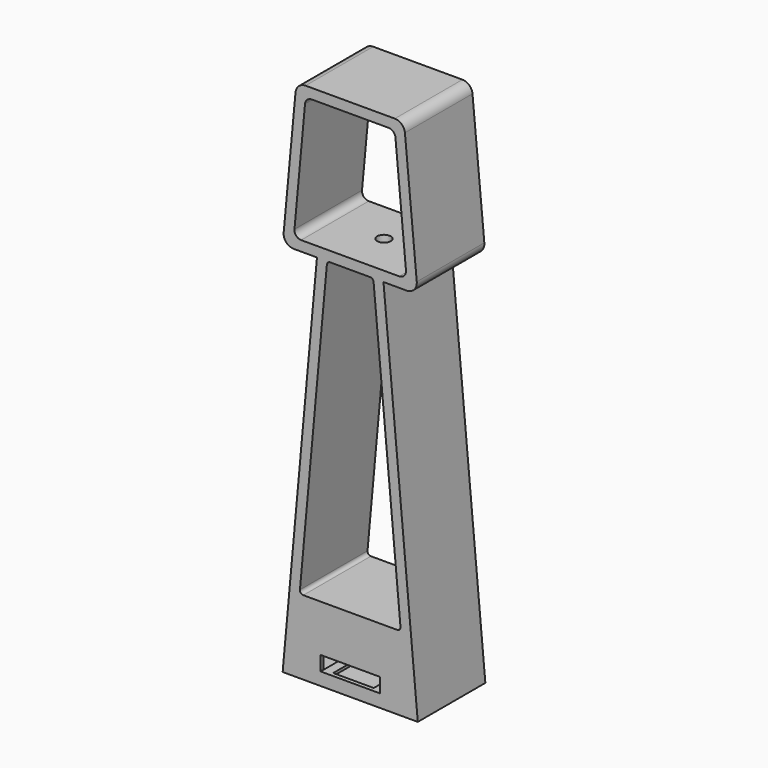
from build123d import *

# Parameters (mm, degrees)
F1_DEPTH  = 250
F3_DEPTH  = 238
F4_W      = 176
F4_H      = 43
F5_DEPTH  = 12.001
F6_R      = 10
F7_R      = 30
F8_R      = 20
F9_R      = 20
F10_DEPTH = 30


with BuildPart() as f1:
    # F0 (on Front) → F1 (new body)
    with BuildSketch(Plane.XZ):
        Polygon((200, 0), (98.472164, 1113.249898), (200, 1113.249898), (159.418754, 1550), (-159.418754, 1550), (-200, 1113.249898), (-98.472164, 1113.249898), (-200, 0), align=None)
        Polygon((-149.811608, 220), (-68.347662, 1113.249898), (68.347662, 1113.249898), (149.811608, 220), align=None, mode=Mode.SUBTRACT)
        Polygon((-167.083285, 1143.249898), (-132.077022, 1520), (132.077022, 1520), (167.083285, 1143.249898), align=None, mode=Mode.SUBTRACT)
    extrude(amount=F1_DEPTH)

    # F2 (on face) → F3 (cut)
    with BuildSketch(Plane(origin=(0, 0, 0), x_dir=(-1, 0, 0), z_dir=(0, 1, 0))):
        Polygon((152.547593, 190), (-152.547593, 190), (-167.139513, 30), (-87.5, 30), (-87.5, 38), (-60, 38), (-60, 30), (60, 30), (60, 38), (87.5, 38), (87.5, 30), (167.139513, 30), align=None)
    extrude(amount=-F3_DEPTH, mode=Mode.SUBTRACT)

    # F4 (on face) → F5 (cut, through all)
    with BuildSketch(Plane(origin=(0, -238, 0), x_dir=(-1, 0, 0), z_dir=(0, 1, 0))):
        with Locations((0, 59.5)):
            Rectangle(F4_W, F4_H)
    extrude(amount=-F5_DEPTH, mode=Mode.SUBTRACT)

    # F6
    f6_edges = [f1.edges().sort_by_distance(p)[0] for p in [
        (-149.811608, -125, 220),
        (149.811608, -125, 220),
        (-68.347662, -125, 1113.249898),
        (68.347662, -125, 1113.249898),
    ]]
    fillet(f6_edges, radius=F6_R)

    # F7
    f7_edges = [f1.edges().sort_by_distance(p)[0] for p in [
        (200, -125, 1113.249898),
        (-200, -125, 1113.249898),
        (-159.418754, -125, 1550),
        (159.418754, -125, 1550),
    ]]
    fillet(f7_edges, radius=F7_R)

    # F8
    f8_edges = [f1.edges().sort_by_distance(p)[0] for p in [
        (-167.083285, -125, 1143.249898),
        (-132.077022, -125, 1520),
        (132.077022, -125, 1520),
        (167.083285, -125, 1143.249898),
    ]]
    fillet(f8_edges, radius=F8_R)

    # F9 (on face) → F10 (cut, through all)
    with BuildSketch(Plane.XY.offset(1143.249898)):
        with Locations((0, -125)):
            Circle(F9_R)
    extrude(amount=-F10_DEPTH, mode=Mode.SUBTRACT)


solid = f1.part
